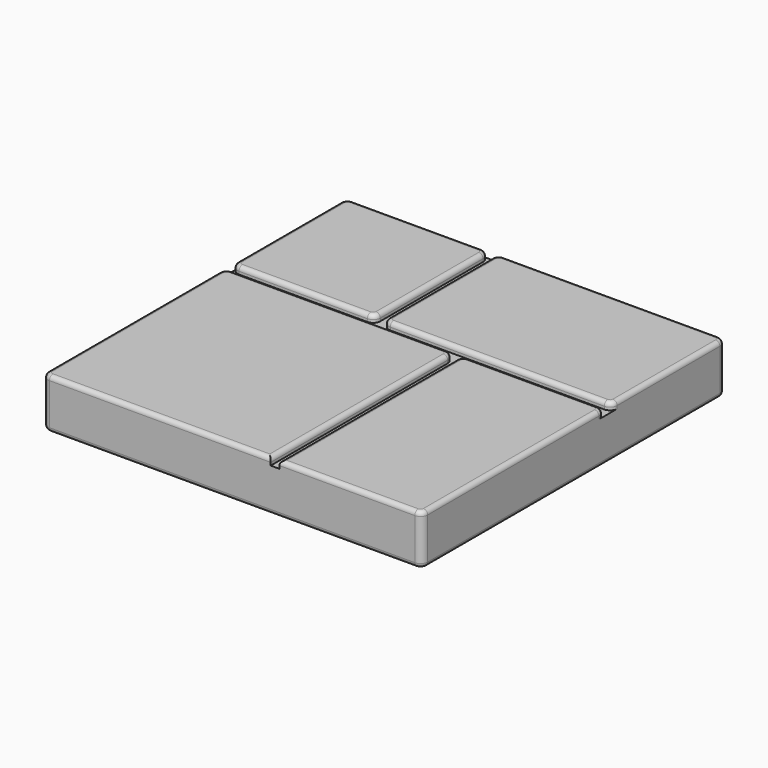
from build123d import *

# Parameters (mm, degrees)
F0_W     = 405.384
F0_H     = 405.384
F1_DEPTH = 45.72
F3_DEPTH = 7.62
F4_R     = 7.62
F5_R     = 4.572


with BuildPart() as f1:
    # F0 (on Top) → F1 (new body)
    with BuildSketch(Plane.XY):
        Rectangle(F0_W, F0_H)
    extrude(amount=F1_DEPTH)

    # F2 (on face) → F3 (join)
    with BuildSketch(Plane.XY.offset(45.72)):
        with BuildLine():
            Line((-202.692, 202.692), (-202.692, 57.912))
            ThreePointArc((-202.692, 57.912), (-200.460154, 52.523846), (-195.072, 50.292))
            Line((-195.072, 50.292), (-57.912, 50.292))
            ThreePointArc((-57.912, 50.292), (-52.523846, 52.523846), (-50.292, 57.912))
            Line((-50.292, 57.912), (-50.292, 195.072))
            ThreePointArc((-50.292, 195.072), (-52.523846, 200.460154), (-57.912, 202.692))
            Line((-57.912, 202.692), (-202.692, 202.692))
        make_face()
        with BuildLine():
            ThreePointArc((195.072, 50.292), (200.460154, 52.523846), (202.692, 57.912))
            Line((202.692, 57.912), (202.692, 202.692))
            Line((202.692, 202.692), (-33.528, 202.692))
            ThreePointArc((-33.528, 202.692), (-38.916154, 200.460154), (-41.148, 195.072))
            Line((-41.148, 195.072), (-41.148, 57.912))
            ThreePointArc((-41.148, 57.912), (-38.916154, 52.523846), (-33.528, 50.292))
            Line((-33.528, 50.292), (195.072, 50.292))
        make_face()
        with BuildLine():
            Line((50.292, 33.528), (50.292, -202.692))
            Line((50.292, -202.692), (202.692, -202.692))
            Line((202.692, -202.692), (202.692, 33.528))
            ThreePointArc((202.692, 33.528), (200.460154, 38.916154), (195.072, 41.148))
            Line((195.072, 41.148), (57.912, 41.148))
            ThreePointArc((57.912, 41.148), (52.523846, 38.916154), (50.292, 33.528))
        make_face()
        with BuildLine():
            Line((-202.692, 33.528), (-202.692, -202.692))
            Line((-202.692, -202.692), (41.148, -202.692))
            Line((41.148, -202.692), (41.148, 33.528))
            ThreePointArc((41.148, 33.528), (38.916154, 38.916154), (33.528, 41.148))
            Line((33.528, 41.148), (-195.072, 41.148))
            ThreePointArc((-195.072, 41.148), (-200.460154, 38.916154), (-202.692, 33.528))
        make_face()
    extrude(amount=F3_DEPTH)

    # F4
    f4_edges = [f1.edges().sort_by_distance(p)[0] for p in [
        (-202.692, 202.692, 26.67),
        (202.692, 202.692, 26.67),
        (202.692, -202.692, 26.67),
        (-202.692, -202.692, 26.67),
    ]]
    fillet(f4_edges, radius=F4_R)

    # F5
    f5_edges = [f1.edges().sort_by_distance(p)[0] for p in [
        (202.692, 126.492, 53.34),
        (200.460154, 200.460154, 53.34),
        (200.460154, 52.523846, 53.34),
        (80.772, 202.692, 53.34),
        (80.772, 50.292, 53.34),
        (-38.916154, 200.460154, 53.34),
        (-38.916154, 52.523846, 53.34),
        (-41.148, 126.492, 53.34),
        (122.682, -202.692, 53.34),
        (200.460154, -200.460154, 53.34),
        (50.292, -84.582, 53.34),
        (202.692, -80.772, 53.34),
        (52.523846, 38.916154, 53.34),
        (200.460154, 38.916154, 53.34),
        (126.492, 41.148, 53.34),
        (-202.692, -80.772, 53.34),
        (-200.460154, -200.460154, 53.34),
        (-200.460154, 38.916154, 53.34),
        (-76.962, -202.692, 53.34),
        (-80.772, 41.148, 53.34),
        (41.148, -84.582, 53.34),
        (38.916154, 38.916154, 53.34),
        (-126.492, 202.692, 53.34),
        (-200.460154, 200.460154, 53.34),
        (-52.523846, 200.460154, 53.34),
        (-202.692, 126.492, 53.34),
        (-50.292, 126.492, 53.34),
        (-200.460154, 52.523846, 53.34),
        (-52.523846, 52.523846, 53.34),
        (-126.492, 50.292, 53.34),
        (0, -202.692, 0),
        (-200.460154, -200.460154, 0),
        (200.460154, -200.460154, 0),
        (-202.692, 0, 0),
        (202.692, 0, 0),
        (-200.460154, 200.460154, 0),
        (200.460154, 200.460154, 0),
        (0, 202.692, 0),
    ]]
    fillet(f5_edges, radius=F5_R)


solid = f1.part
